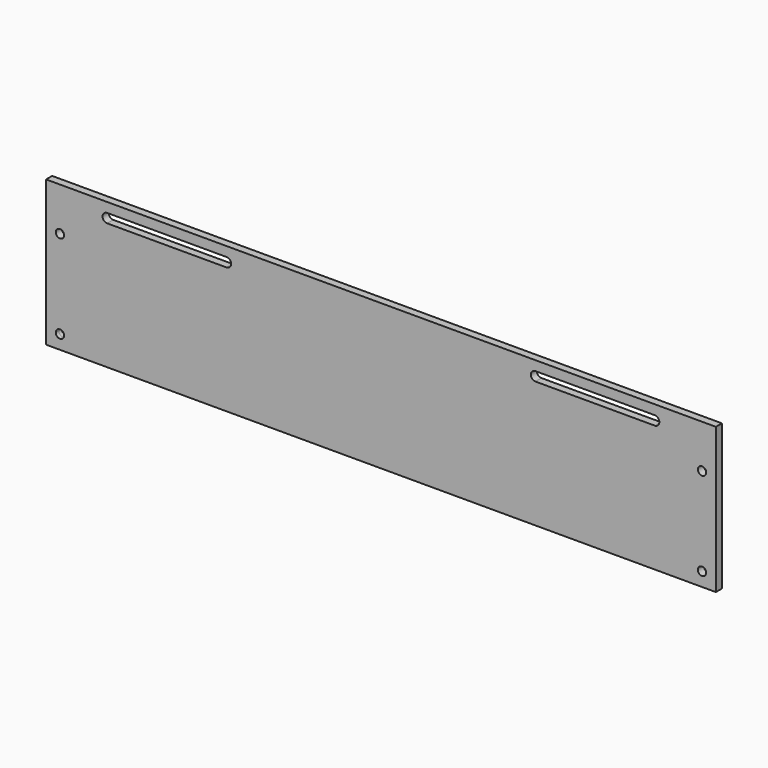
from build123d import *

# Parameters (mm, degrees)
F0_R     = 1.75
F1_DEPTH = 1.5875


with BuildPart() as f1:
    # F0 (on Front) → F1 (new body, symmetric)
    with BuildSketch(Plane.XZ):
        with BuildLine():
            Line((140.3, -30.48), (140.3, 30.48))
            Line((140.3, 30.48), (-140.3, 30.48))
            Line((-140.3, 30.48), (-140.3, -24.68))
            Line((-140.3, -24.68), (-136.25, -24.68))
            ThreePointArc((-136.25, -24.68), (-134.5, -22.93), (-132.75, -24.68))
            ThreePointArc((-132.75, -24.68), (-133.2625631329, -25.9174368671), (-134.5, -26.43))
            Line((-134.5, -26.43), (-134.5, -30.48))
            Line((-134.5, -30.48), (140.3, -30.48))
        make_face()
        with Locations((134.5, -24.68)):
            Circle(F0_R, mode=Mode.SUBTRACT)
        with Locations((-134.5, 12.32)):
            Circle(F0_R, mode=Mode.SUBTRACT)
        with BuildLine():
            Line((-114.69375, 26.44616), (-89.69375, 26.44616))
            Line((-89.69375, 26.44616), (-64.69375, 26.44616))
            ThreePointArc((-64.69375, 26.44616), (-62.76875, 24.52116), (-64.69375, 22.59616))
            Line((-64.69375, 22.59616), (-89.69375, 22.59616))
            Line((-89.69375, 22.59616), (-114.69375, 22.59616))
            ThreePointArc((-114.69375, 22.59616), (-116.61875, 24.52116), (-114.69375, 26.44616))
        make_face(mode=Mode.SUBTRACT)
        with Locations((134.5, 12.32)):
            Circle(F0_R, mode=Mode.SUBTRACT)
        with BuildLine():
            ThreePointArc((64.69375, 22.59616), (62.76875, 24.52116), (64.69375, 26.44616))
            Line((64.69375, 26.44616), (114.69375, 26.44616))
            ThreePointArc((114.69375, 26.44616), (116.61875, 24.52116), (114.69375, 22.59616))
            Line((114.69375, 22.59616), (64.69375, 22.59616))
        make_face(mode=Mode.SUBTRACT)
        with BuildLine():
            Line((-136.25, -24.68), (-140.3, -24.68))
            Line((-140.3, -24.68), (-140.3, -30.48))
            Line((-140.3, -30.48), (-134.5, -30.48))
            Line((-134.5, -30.48), (-134.5, -26.43))
            ThreePointArc((-134.5, -26.43), (-135.7374368671, -25.9174368671), (-136.25, -24.68))
        make_face()
    extrude(amount=F1_DEPTH, both=True)


solid = f1.part
